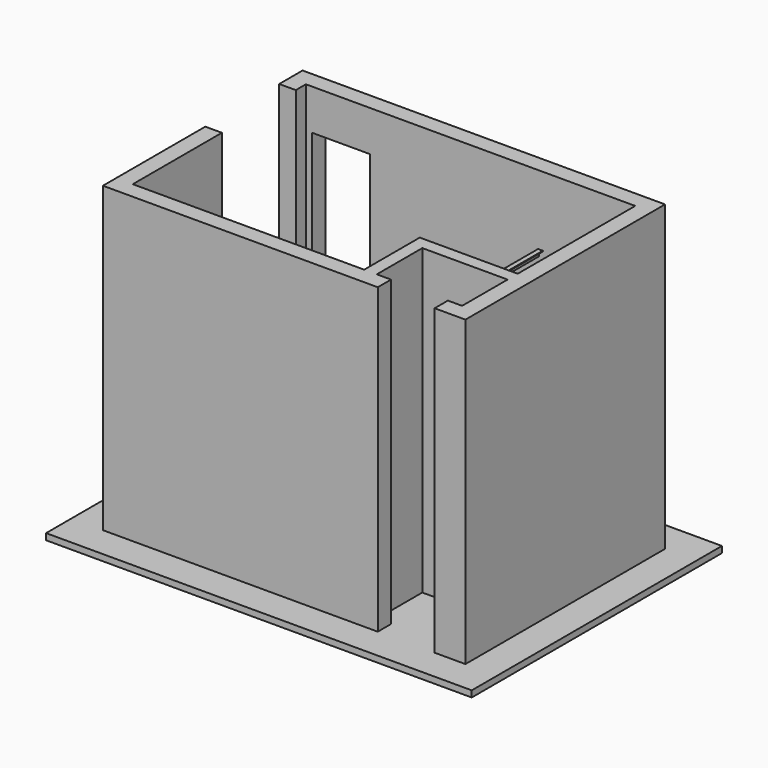
from build123d import *

# Parameters (mm, degrees)
F1_DEPTH  = 2438.4
F4_W      = 463.55
F4_H      = 942.975
F5_DEPTH  = 133.351
F6_W      = 3422.65
F6_H      = 2514.6
F7_DEPTH  = 50.8
F0_W      = 50.8
F0_H      = 1181.1
F8_DEPTH  = 101.6
F10_DEPTH = 1181.1
F12_DEPTH = 457.2


with BuildPart() as f1:
    # F0 (on Top) → F1 (new body)
    with BuildSketch(Plane.XY):
        Polygon((752.475, -1003.3), (752.475, -869.95), (638.175, -869.95), (536.575, -869.95), (-1323.975, -869.95), (-1323.975, 25.4), (-1457.325, 25.4), (-1457.325, -1003.3), align=None)
        Polygon((1323.975, -412.75), (1323.975, -869.95), (1209.675, -869.95), (1209.675, -1003.3), (1457.325, -1003.3), (1457.325, 1003.3), (-1457.325, 1003.3), (-1457.325, 768.35), (-1323.975, 768.35), (-1323.975, 869.95), (536.575, 869.95), (587.375, 869.95), (1323.975, 869.95), (1323.975, -311.15), align=None)
        Polygon((638.175, -412.75), (1323.975, -412.75), (1323.975, -311.15), (587.375, -311.15), (536.575, -311.15), (536.575, -869.95), (638.175, -869.95), align=None)
    extrude(amount=F1_DEPTH)

    # F4 (on face) → F5 (cut, through all)
    with BuildSketch(Plane.XZ.offset(-869.95)):
        with Locations((-1041.4, 1639.8875)):
            Rectangle(F4_W, F4_H)
    extrude(amount=-F5_DEPTH, mode=Mode.SUBTRACT)

    # F6 (on face) → F7 (join)
    with BuildSketch(Plane(origin=(0, 0, 0), x_dir=(1, 0, 0), z_dir=(0, 0, -1))):
        Rectangle(F6_W, F6_H)
    extrude(amount=F7_DEPTH)

    # F0 (on Top) → F8 (join)
    with BuildSketch(Plane.XY):
        with Locations((561.975, 279.4)):
            Rectangle(F0_W, F0_H)
    extrude(amount=F8_DEPTH)

    # F9 (on face) → F10 (join, through all)
    with BuildSketch(Plane.XZ.offset(-869.95)):
        Polygon((542.925, 139.7), (542.925, 101.6), (581.025, 101.6), (581.025, 107.95), (549.275, 107.95), (549.275, 139.7), align=None)
        Polygon((581.025, 1879.6), (542.925, 1879.6), (542.925, 1828.8), (549.275, 1828.8), (549.275, 1873.25), (581.025, 1873.25), align=None)
    extrude(amount=F10_DEPTH)

    # F11 (on face) → F12 (join)
    with BuildSketch(Plane.XY):
        Polygon((1323.975, -6.35), (1019.175, -311.15), (1323.975, -311.15), align=None)
    extrude(amount=F12_DEPTH)


solid = f1.part
